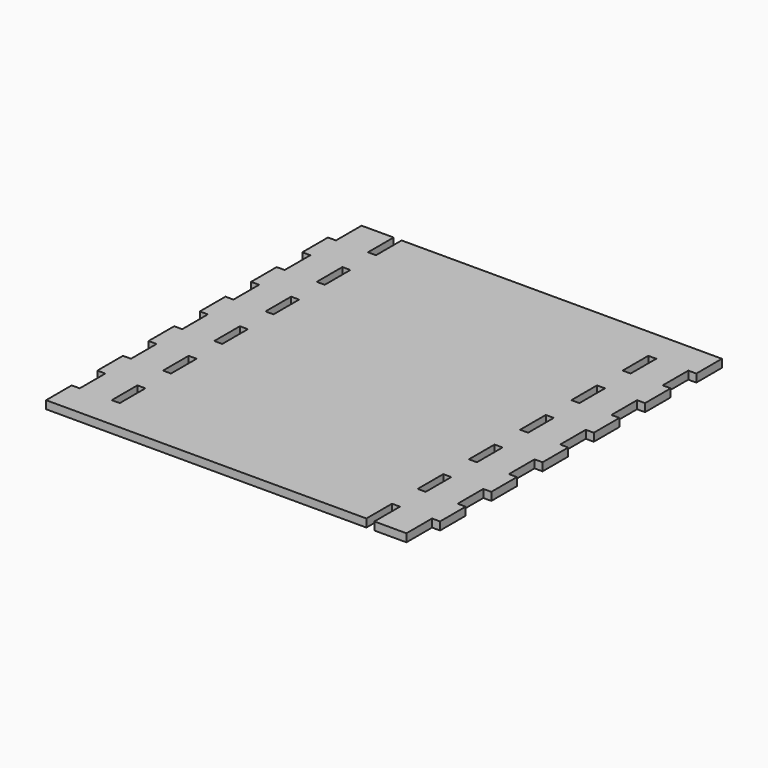
from build123d import *

# Parameters (mm, degrees)
F0_W     = 3.175
F0_H     = 12.7
F1_DEPTH = 3.175


with BuildPart() as f1:
    # F0 (on Top) → F1 (new body)
    with BuildSketch(Plane.XY):
        Polygon((73.025, 63.5), (73.025, 76.2), (-53.975, 76.2), (-53.975, 63.5), (-57.15, 63.5), (-57.15, 76.2), (-69.85, 76.2), (-69.85, 63.5), (-73.025, 63.5), (-73.025, 50.8), (-69.85, 50.8), (-69.85, 38.1), (-73.025, 38.1), (-73.025, 25.4), (-69.85, 25.4), (-69.85, 12.7), (-73.025, 12.7), (-73.025, 0), (-69.85, 0), (-69.85, -12.7), (-73.025, -12.7), (-73.025, -25.4), (-69.85, -25.4), (-69.85, -38.1), (-73.025, -38.1), (-73.025, -50.8), (-69.85, -50.8), (-69.85, -63.5), (-73.025, -63.5), (-73.025, -76.2), (53.975, -76.2), (53.975, -63.5), (57.15, -63.5), (57.15, -76.2), (69.85, -76.2), (69.85, -63.5), (73.025, -63.5), (73.025, -50.8), (69.85, -50.8), (69.85, -38.1), (73.025, -38.1), (73.025, -25.4), (69.85, -25.4), (69.85, -12.7), (73.025, -12.7), (73.025, 0), (69.85, 0), (69.85, 12.7), (73.025, 12.7), (73.025, 25.4), (69.85, 25.4), (69.85, 38.1), (73.025, 38.1), (73.025, 50.8), (69.85, 50.8), (69.85, 63.5), align=None)
        with Locations((-55.5625, -57.15)):
            Rectangle(F0_W, F0_H, mode=Mode.SUBTRACT)
        with Locations((-55.5625, -31.75)):
            Rectangle(F0_W, F0_H, mode=Mode.SUBTRACT)
        with Locations((-55.5625, -6.35)):
            Rectangle(F0_W, F0_H, mode=Mode.SUBTRACT)
        with Locations((55.5625, -44.45)):
            Rectangle(F0_W, F0_H, mode=Mode.SUBTRACT)
        with Locations((55.5625, -19.05)):
            Rectangle(F0_W, F0_H, mode=Mode.SUBTRACT)
        with Locations((-55.5625, 19.05)):
            Rectangle(F0_W, F0_H, mode=Mode.SUBTRACT)
        with Locations((-55.5625, 44.45)):
            Rectangle(F0_W, F0_H, mode=Mode.SUBTRACT)
        with Locations((55.5625, 6.35)):
            Rectangle(F0_W, F0_H, mode=Mode.SUBTRACT)
        with Locations((55.5625, 31.75)):
            Rectangle(F0_W, F0_H, mode=Mode.SUBTRACT)
        with Locations((55.5625, 57.15)):
            Rectangle(F0_W, F0_H, mode=Mode.SUBTRACT)
    extrude(amount=F1_DEPTH)


solid = f1.part
